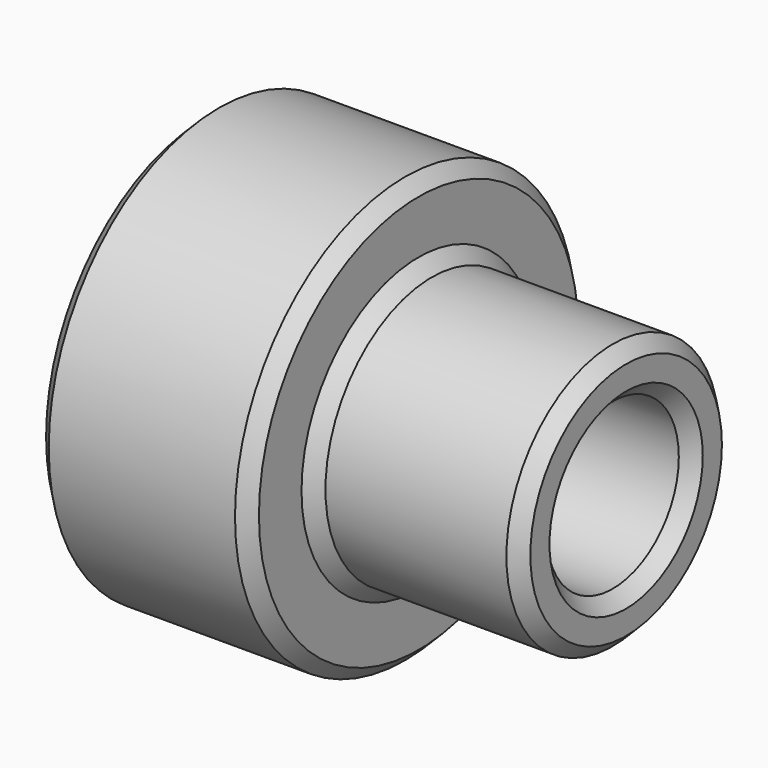
from build123d import *

# Parameters (mm, degrees)
F0_R     = 8
F1_DEPTH = 15.8
F2_R     = 8
F2_R_2   = 5
F3_DEPTH = 7.8
F4_R     = 3.1
F5_DEPTH = 25
F6_SIZE  = 0.5


with BuildPart() as f1:
    # F0 (on Right) → F1 (new body)
    with BuildSketch(Plane.YZ):
        Circle(F0_R)
    extrude(amount=-F1_DEPTH)

    # F2 (on face) → F3 (cut)
    with BuildSketch(Plane.YZ):
        Circle(F2_R)
        Circle(F2_R_2, mode=Mode.SUBTRACT)
    extrude(amount=-F3_DEPTH, mode=Mode.SUBTRACT)

    # F4 (on face) → F5 (cut)
    with BuildSketch(Plane.YZ):
        Circle(F4_R)
    extrude(amount=-F5_DEPTH, mode=Mode.SUBTRACT)

    # F6
    f6_edges = [f1.edges().sort_by_distance(p)[0] for p in [
        (0, -3.1, 0),
        (-15.8, -3.1, 0),
        (0, -5, 0),
        (-7.8, -5, 0),
        (-7.8, -8, 0),
        (-15.8, -8, 0),
    ]]
    chamfer(f6_edges, length=F6_SIZE)


solid = f1.part
